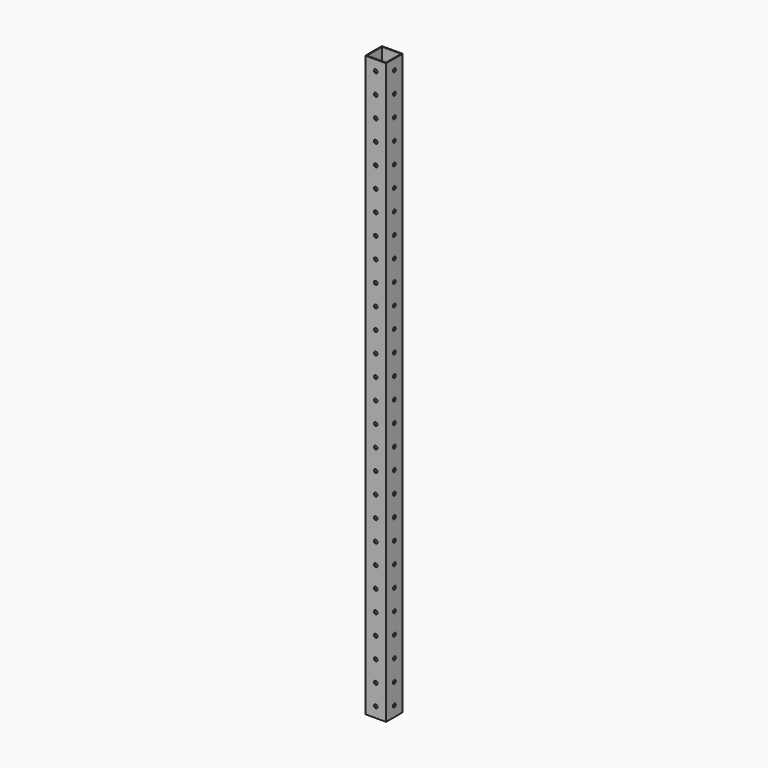
from build123d import *

# Parameters (mm, degrees)
F0_W     = 25.4
F0_H     = 25.4
F0_W_2   = 23.368
F0_H_2   = 23.368
F1_DEPTH = 711.2
F2_R     = 2.1844
F3_DEPTH = 25.4
F4_R     = 2.1844
F5_DEPTH = 25.4


with BuildPart() as f1:
    # F0 (on Top) → F1 (new body)
    with BuildSketch(Plane.XY):
        with Locations((12.7, -12.7)):
            Rectangle(F0_W, F0_H)
        with Locations((12.7, -12.7)):
            Rectangle(F0_W_2, F0_H_2, mode=Mode.SUBTRACT)
    extrude(amount=F1_DEPTH)

    # F2 (on face) → F3 (cut)
    with BuildSketch(Plane.XZ.offset(25.4)):
        with Locations((12.7, 12.7)):
            Circle(F2_R)
        with Locations((12.7, 38.1)):
            Circle(F2_R)
        with Locations((12.7, 241.3)):
            Circle(F2_R)
        with Locations((12.7, 215.9)):
            Circle(F2_R)
        with Locations((12.7, 190.5)):
            Circle(F2_R)
        with Locations((12.7, 165.1)):
            Circle(F2_R)
        with Locations((12.7, 139.7)):
            Circle(F2_R)
        with Locations((12.7, 114.3)):
            Circle(F2_R)
        with Locations((12.7, 88.9)):
            Circle(F2_R)
        with Locations((12.7, 63.5)):
            Circle(F2_R)
        with Locations((12.7, 266.7)):
            Circle(F2_R)
        with Locations((12.7, 292.1)):
            Circle(F2_R)
        with Locations((12.7, 317.5)):
            Circle(F2_R)
        with Locations((12.7, 342.9)):
            Circle(F2_R)
        with Locations((12.7, 368.3)):
            Circle(F2_R)
        with Locations((12.7, 393.7)):
            Circle(F2_R)
        with Locations((12.7, 419.1)):
            Circle(F2_R)
        with Locations((12.7, 444.5)):
            Circle(F2_R)
        with Locations((12.7, 469.9)):
            Circle(F2_R)
        with Locations((12.7, 495.3)):
            Circle(F2_R)
        with Locations((12.7, 520.7)):
            Circle(F2_R)
        with Locations((12.7, 546.1)):
            Circle(F2_R)
        with Locations((12.7, 571.5)):
            Circle(F2_R)
        with Locations((12.7, 596.9)):
            Circle(F2_R)
        with Locations((12.7, 622.3)):
            Circle(F2_R)
        with Locations((12.7, 647.7)):
            Circle(F2_R)
        with Locations((12.7, 673.1)):
            Circle(F2_R)
        with Locations((12.7, 698.5)):
            Circle(F2_R)
    extrude(amount=-F3_DEPTH, mode=Mode.SUBTRACT)

    # F4 (on face) → F5 (cut)
    with BuildSketch(Plane(origin=(0, 0, 0), x_dir=(0, -1, 0), z_dir=(-1, 0, 0))):
        with Locations((12.7, 12.7)):
            Circle(F4_R)
        with Locations((12.7, 38.1)):
            Circle(F4_R)
        with Locations((12.7, 63.5)):
            Circle(F4_R)
        with Locations((12.7, 88.9)):
            Circle(F4_R)
        with Locations((12.7, 114.3)):
            Circle(F4_R)
        with Locations((12.7, 139.7)):
            Circle(F4_R)
        with Locations((12.7, 165.1)):
            Circle(F4_R)
        with Locations((12.7, 190.5)):
            Circle(F4_R)
        with Locations((12.7, 215.9)):
            Circle(F4_R)
        with Locations((12.7, 241.3)):
            Circle(F4_R)
        with Locations((12.7, 266.7)):
            Circle(F4_R)
        with Locations((12.7, 292.1)):
            Circle(F4_R)
        with Locations((12.7, 317.5)):
            Circle(F4_R)
        with Locations((12.7, 342.9)):
            Circle(F4_R)
        with Locations((12.7, 368.3)):
            Circle(F4_R)
        with Locations((12.7, 393.7)):
            Circle(F4_R)
        with Locations((12.7, 419.1)):
            Circle(F4_R)
        with Locations((12.7, 444.5)):
            Circle(F4_R)
        with Locations((12.7, 546.1)):
            Circle(F4_R)
        with Locations((12.7, 520.7)):
            Circle(F4_R)
        with Locations((12.7, 495.3)):
            Circle(F4_R)
        with Locations((12.7, 469.9)):
            Circle(F4_R)
        with Locations((12.7, 571.5)):
            Circle(F4_R)
        with Locations((12.7, 596.9)):
            Circle(F4_R)
        with Locations((12.7, 622.3)):
            Circle(F4_R)
        with Locations((12.7, 647.7)):
            Circle(F4_R)
        with Locations((12.7, 673.1)):
            Circle(F4_R)
        with Locations((12.7, 698.5)):
            Circle(F4_R)
    extrude(amount=-F5_DEPTH, mode=Mode.SUBTRACT)


solid = f1.part
